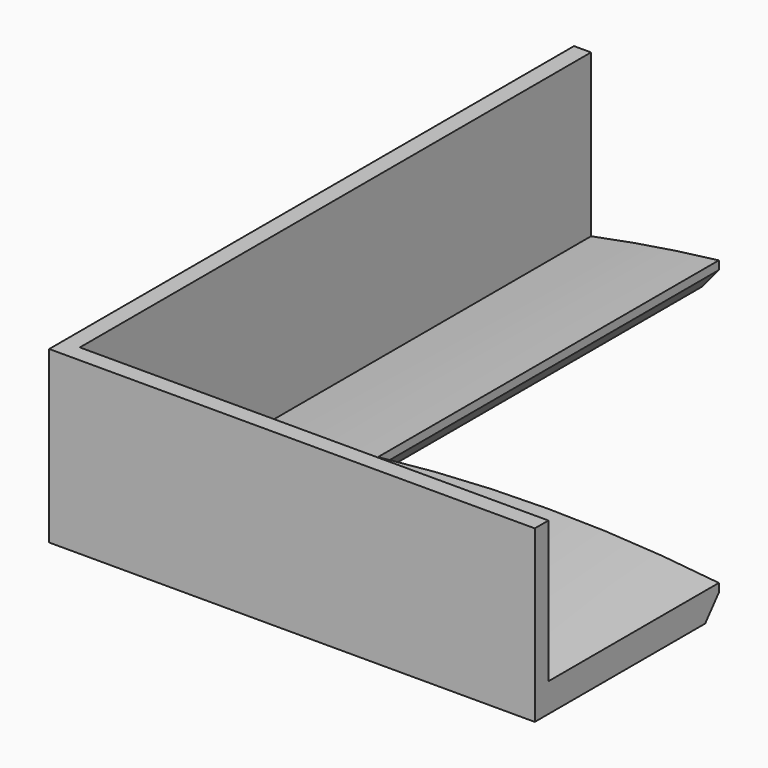
from build123d import *

# Parameters (mm, degrees)
F1_DEPTH = 5
F3_DEPTH = 80
F5_DEPTH = 20
F6_SIZE2 = 2.3835071852
F6_SIZE  = 2


with BuildPart() as f1:
    # F0 (on Top) → F1 (new body)
    with BuildSketch(Plane.XY):
        Polygon((0, 0), (0, 50), (-15, 50), (-15, -25), (40, -25), (40, 0), align=None)
    extrude(amount=F1_DEPTH)

    # F2 (on face) → F3 (cut)
    with BuildSketch(Plane.XZ.offset(25)):
        with BuildLine():
            ThreePointArc((-15, 1), (12.4054654459, 4.3708490427), (40, 3.3891045123))
            Line((40, 3.3891045123), (40, 5))
            Line((40, 5), (-15, 5))
            Line((-15, 5), (-15, 1))
        make_face()
    extrude(amount=-F3_DEPTH, mode=Mode.SUBTRACT)

    # F4 (on face) → F5 (join)
    with BuildSketch(Plane(origin=(0, 0, 0), x_dir=(1, 0, 0), z_dir=(0, 0, -1))):
        Polygon((-17, -50), (-15, -50), (-15, 25), (40, 25), (40, 27), (-17, 27), align=None)
    extrude(amount=-F5_DEPTH)

    # F6
    f6_edges = [f1.edges().sort_by_distance(p)[0] for p in [
        (20, 0, 0),
        (0, 25, 0),
    ]]
    f6_side = f1.faces().sort_by_distance((-0.958019, 25, 0))[0]
    chamfer(f6_edges, length=F6_SIZE, length2=F6_SIZE2, reference=f6_side)


solid = f1.part
